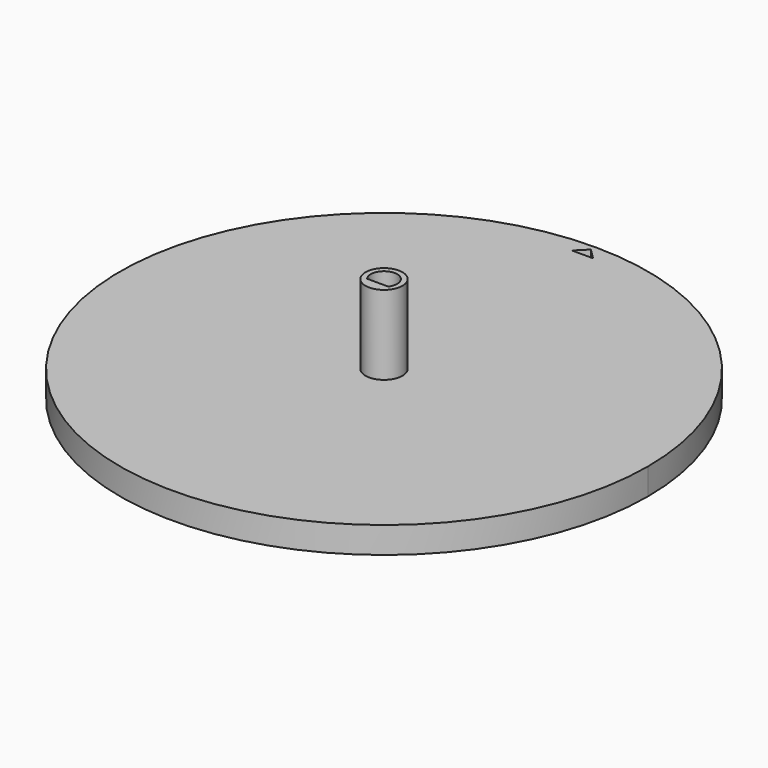
from build123d import *

# Parameters (mm, degrees)
F0_R     = 3.5
F1_DEPTH = 15
F3_DEPTH = 5


with BuildPart() as f1:
    # F0 (on Top) → F1 (new body)
    with BuildSketch(Plane.XY):
        Circle(F0_R)
        with BuildLine():
            ThreePointArc((-2, -1.5), (-0.790569415, 2.3717082451), (2.5, 0))
            ThreePointArc((2.5, 0), (2.3717082451, -0.790569415), (2, -1.5))
            ThreePointArc((2, -1.5), (0, -2.5), (-2, -1.5))
        make_face(mode=Mode.SUBTRACT)
        with BuildLine():
            Line((0, -1.5), (-2, -1.5))
            ThreePointArc((-2, -1.5), (0, -2.5), (2, -1.5))
            Line((2, -1.5), (0, -1.5))
        make_face()
    extrude(amount=F1_DEPTH)

    # F2 (on Top) → F3 (join)
    with BuildSketch(Plane.XY):
        with BuildLine():
            ThreePointArc((0, 50), (-35.3553390593, -35.3553390593), (50, 0))
            ThreePointArc((50, 0), (35.3553390593, 35.3553390593), (0, 50))
        make_face()
        Polygon((-2, 47), (0, 49), (2, 47), (0, 47), align=None, mode=Mode.SUBTRACT)
    extrude(amount=-F3_DEPTH)


solid = f1.part
